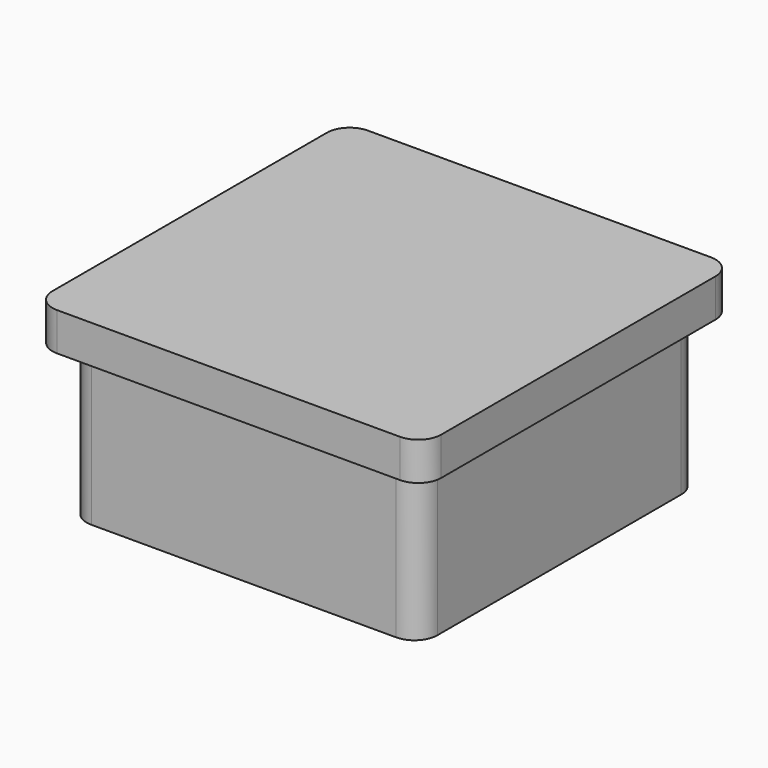
from build123d import *

# Parameters (mm, degrees)
F1_DEPTH = 5
F3_DEPTH = 20


with BuildPart() as f1:
    # F0 (on Top) → F1 (new body)
    with BuildSketch(Plane.XY):
        with BuildLine():
            ThreePointArc((-25.5, -22.5), (-24.62132, -24.62132), (-22.5, -25.5))
            Line((-22.5, -25.5), (22.5, -25.5))
            ThreePointArc((22.5, -25.5), (24.62132, -24.62132), (25.5, -22.5))
            Line((25.5, -22.5), (25.5, 22.5))
            ThreePointArc((25.5, 22.5), (24.62132, 24.62132), (22.5, 25.5))
            Line((22.5, 25.5), (-22.5, 25.5))
            ThreePointArc((-22.5, 25.5), (-24.62132, 24.62132), (-25.5, 22.5))
            Line((-25.5, 22.5), (-25.5, -22.5))
        make_face()
    extrude(amount=F1_DEPTH)

    # F2 (on face) → F3 (join)
    with BuildSketch(Plane(origin=(0, 0, 0), x_dir=(1, 0, 0), z_dir=(0, 0, -1))):
        with BuildLine():
            ThreePointArc((-23, -20), (-22.12132, -22.12132), (-20, -23))
            Line((-20, -23), (20, -23))
            ThreePointArc((20, -23), (22.12132, -22.12132), (23, -20))
            Line((23, -20), (23, 20))
            ThreePointArc((23, 20), (22.12132, 22.12132), (20, 23))
            Line((20, 23), (-20, 23))
            ThreePointArc((-20, 23), (-22.12132, 22.12132), (-23, 20))
            Line((-23, 20), (-23, -20))
        make_face()
        with BuildLine():
            ThreePointArc((20, 21), (20.707107, 20.707107), (21, 20))
            Line((21, 20), (21, -20))
            ThreePointArc((21, -20), (20.707107, -20.707107), (20, -21))
            Line((20, -21), (-20, -21))
            ThreePointArc((-20, -21), (-20.707107, -20.707107), (-21, -20))
            Line((-21, -20), (-21, 20))
            ThreePointArc((-21, 20), (-20.707107, 20.707107), (-20, 21))
            Line((-20, 21), (20, 21))
        make_face(mode=Mode.SUBTRACT)
    extrude(amount=F3_DEPTH)


solid = f1.part
